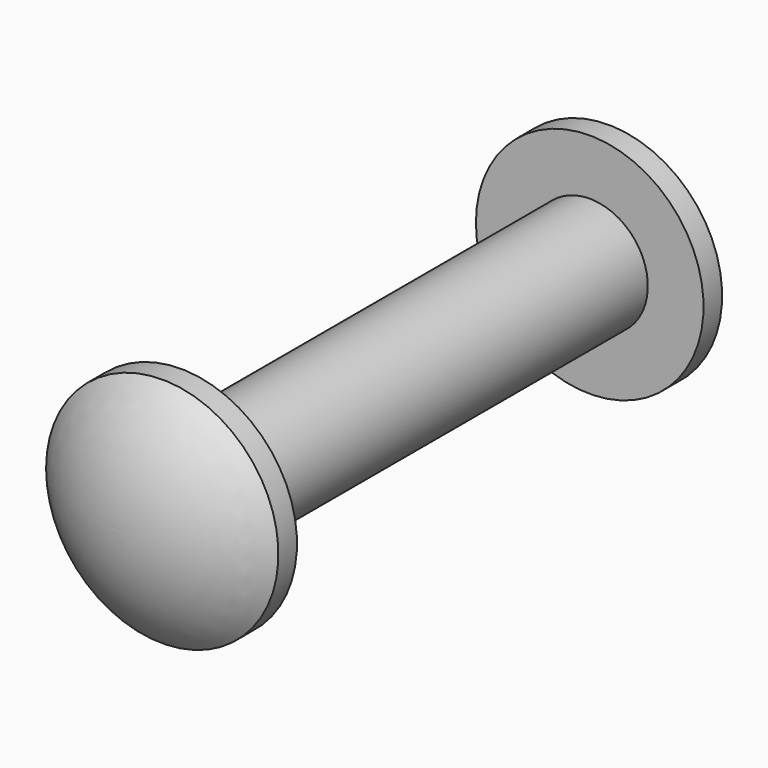
from build123d import *


with BuildPart() as f1:
    # F0 (on Top) → F1 (revolve)
    with BuildSketch(Plane.XY):
        with BuildLine():
            Line((-4.898979, 22), (-2.5, 22))
            Line((-2.5, 22), (-2.5, 0))
            Line((-2.5, 0), (-5, 0))
            Line((-5, 0), (-5, -1))
            ThreePointArc((-5, -1), (-2.7, -2.5), (0, -3))
            Line((0, -3), (0, 25))
            ThreePointArc((0, 25), (-2.645751, 24.480741), (-4.898979, 23))
            Line((-4.898979, 23), (-4.898979, 22))
        make_face()
    revolve(axis=Axis((0, 11, 0), (0, 1, 0)))


solid = f1.part
